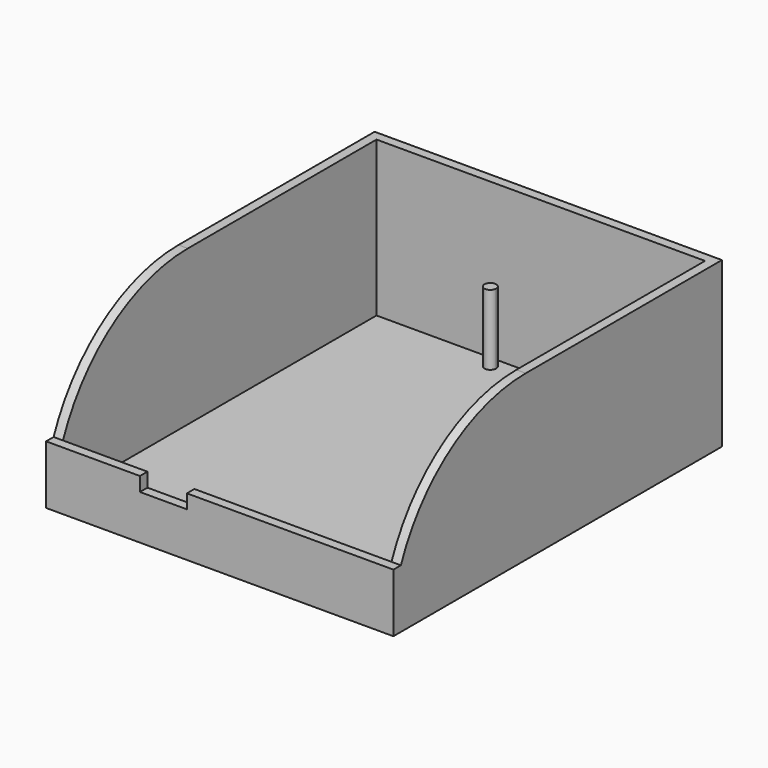
from build123d import *

# Parameters (mm, degrees)
F0_W      = 74
F0_H      = 87.5
F1_DEPTH  = 34
F2_W      = 70
F2_H      = 83.5
F4_DEPTH  = 33
F3_W      = 2
F3_H      = 22.5
F5_DEPTH  = 74
F8_DEPTH  = 15
F9_DEPTH  = 1
F6_W      = 10
F6_H      = 3
F10_DEPTH = 4


with BuildPart() as f1:
    # F0 (on Top) → F1 (new body)
    with BuildSketch(Plane.XY):
        Rectangle(F0_W, F0_H)
    extrude(amount=F1_DEPTH)

    # F2 (on face) → F4 (cut)
    with BuildSketch(Plane.XY.offset(34)):
        Rectangle(F2_W, F2_H)
    extrude(amount=-F4_DEPTH, mode=Mode.SUBTRACT)

    # F3 (on face) → F5 (cut)
    with BuildSketch(Plane(origin=(-37, 0, 0), x_dir=(0, -1, 0), z_dir=(-1, 0, 0))):
        with BuildLine():
            Line((41.75, 34), (8.5, 34))
            ThreePointArc((8.5, 34), (28.573692, 27.846401), (41.75, 11.5))
            Line((41.75, 11.5), (41.75, 34))
        make_face()
        with Locations((42.75, 22.75)):
            Rectangle(F3_W, F3_H)
    extrude(amount=-F5_DEPTH, mode=Mode.SUBTRACT)

    # F7 (on face) → F8 (join)
    with BuildSketch(Plane.XY.offset(1)):
        with BuildLine():
            ThreePointArc((-7.5, 39.25), (-7.866117, 40.133883), (-8.75, 40.5))
            Line((-8.75, 40.5), (-8.75, 39.25))
            Line((-8.75, 39.25), (-10, 39.25))
            ThreePointArc((-10, 39.25), (-8.75, 38), (-7.5, 39.25))
        make_face()
        with BuildLine():
            Line((-8.75, 39.25), (-8.75, 40.5))
            ThreePointArc((-8.75, 40.5), (-9.633883, 40.133883), (-10, 39.25))
            Line((-10, 39.25), (-8.75, 39.25))
        make_face()
    extrude(amount=F8_DEPTH)

    # F0 (on Top) → F9 (join)
    with BuildSketch(Plane.XY):
        Rectangle(F0_W, F0_H)
        Rectangle(F0_W, F0_H)
    extrude(amount=-F9_DEPTH)

    # F6 (on face) → F10 (cut)
    with BuildSketch(Plane.XZ.offset(43.75)):
        with Locations((-12, 10)):
            Rectangle(F6_W, F6_H)
    extrude(amount=-F10_DEPTH, mode=Mode.SUBTRACT)


solid = f1.part
